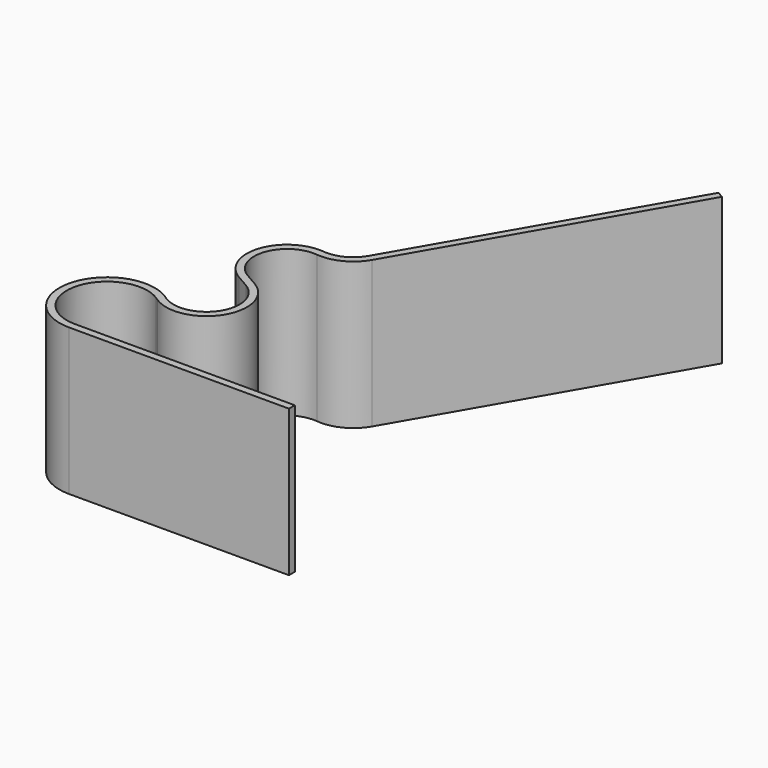
from build123d import *

# Parameters (mm, degrees)
SKETCH_W = 1
SKETCH_H = 20


with BuildPart() as part:
    # AdditivePipe: sweep along a path in Sketch001
    with BuildLine(Plane.XY) as additivepipe_path:
        Line((0, 0), (-30, 0))
        ThreePointArc((-30, 0), (-35.748611, 7.718568), (-26.706875, 11.015509))
        Line((-26.706875, 11.015509), (-26.362344, 10.789294))
        ThreePointArc((-26.362344, 10.789294), (-19.361462, 12.345669), (-21.118073, 19.299011))
        Line((-21.118073, 19.299011), (-22.850124, 20.299011))
        ThreePointArc((-22.850124, 20.299011), (-25.103298, 26.180698), (-19.81394, 29.600306))
        ThreePointArc((-19.81394, 29.600306), (-17.013872, 30.113353), (-14.947628, 32.071474))
        Line((-14.947628, 32.071474), (5.052372, 66.71249))
    # Sketch → AdditivePipe (sweep)
    with BuildSketch(Plane.YZ):
        with Locations((0, 10)):
            Rectangle(SKETCH_W, SKETCH_H)
    sweep(path=additivepipe_path.line)


solid = part.part
